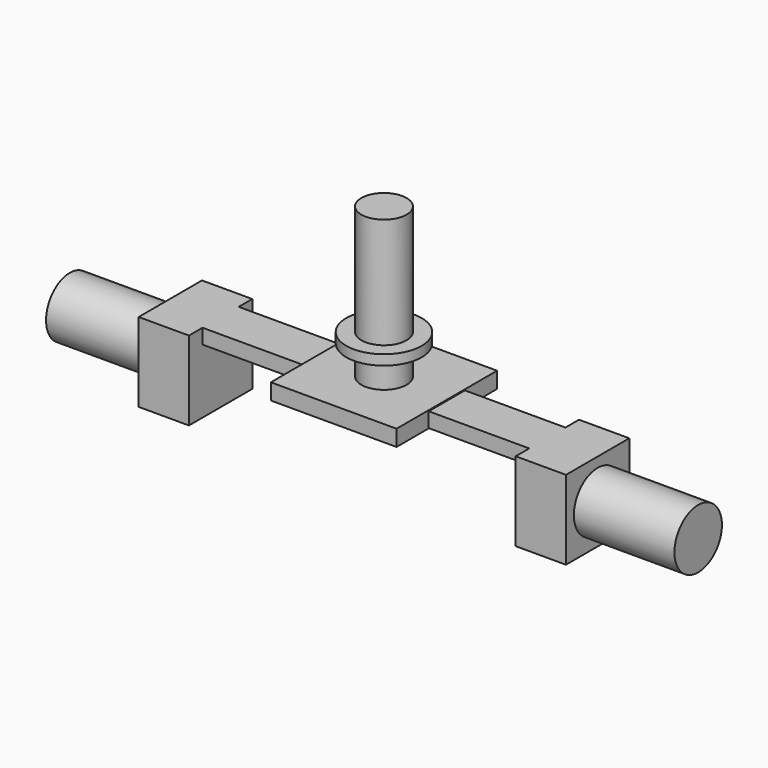
from build123d import *

# Parameters (mm, degrees)
F0_R          = 11.43
F1_DEPTH      = 76.2
F3_START      = 15.24
F2_R          = 19.05
F3_DEPTH      = 5.08
F4_W          = 215.9
F4_H          = 22.86
F4_R          = 5.08
F5_DEPTH      = 7.5
F2_W          = 63.5
F2_H          = 63.5
F2_R_2        = 22.225
F6_DEPTH      = 0.508
F6_DEPTH_BACK = 7.62
F8_START      = 82.55
F7_W          = 40
F7_H          = 40
F7_R          = 15
F8_DEPTH      = 25.4
F9_START      = 107.95
F9_DEPTH      = 50.8
F10_START     = -82.55
F10_DEPTH     = 25.4
F11_START     = -107.95
F11_DEPTH     = 50.8


with BuildPart() as f1:
    # F0 (on Top) → F1 (new body)
    with BuildSketch(Plane.XY):
        Circle(F0_R)
    extrude(amount=F1_DEPTH)

    # F2 (on Top) → F3 (join)
    with BuildSketch(Plane.XY.offset(F3_START)):
        Circle(F2_R)
    extrude(amount=F3_DEPTH)

    # F4 (on Top) → F5 (join)
    with BuildSketch(Plane.XY):
        Rectangle(F4_W, F4_H)
        with Locations((-97.79, 0)):
            Circle(F4_R, mode=Mode.SUBTRACT)
        with Locations((97.79, 0)):
            Circle(F4_R, mode=Mode.SUBTRACT)
    extrude(amount=-F5_DEPTH)

    # F2 (on Top) → F6 (join, two sides)
    with BuildSketch(Plane.XY) as f6_sk:
        Rectangle(F2_W, F2_H)
        Circle(F2_R_2, mode=Mode.SUBTRACT)
        Circle(F2_R_2)
        Circle(F2_R, mode=Mode.SUBTRACT)
        Circle(F2_R)
    extrude(amount=F6_DEPTH)
    extrude(f6_sk.sketch, amount=-F6_DEPTH_BACK)

    # F7 (on Right) → F8 (join)
    with BuildSketch(Plane.YZ.offset(F8_START)):
        with Locations((0, -20)):
            Rectangle(F7_W, F7_H)
        with Locations((0, -20)):
            Circle(F7_R, mode=Mode.SUBTRACT)
        with Locations((0, -20)):
            Circle(F7_R)
    extrude(amount=F8_DEPTH)

    # F7 (on Right) → F9 (join)
    with BuildSketch(Plane.YZ.offset(F9_START)):
        with Locations((0, -20)):
            Circle(F7_R)
    extrude(amount=F9_DEPTH)

    # F7 (on Right) → F10 (join)
    with BuildSketch(Plane.YZ.offset(F10_START)):
        with Locations((0, -20)):
            Rectangle(F7_W, F7_H)
        with Locations((0, -20)):
            Circle(F7_R, mode=Mode.SUBTRACT)
        with Locations((0, -20)):
            Circle(F7_R)
    extrude(amount=-F10_DEPTH)

    # F7 (on Right) → F11 (join)
    with BuildSketch(Plane.YZ.offset(F11_START)):
        with Locations((0, -20)):
            Circle(F7_R)
    extrude(amount=-F11_DEPTH)


solid = f1.part
